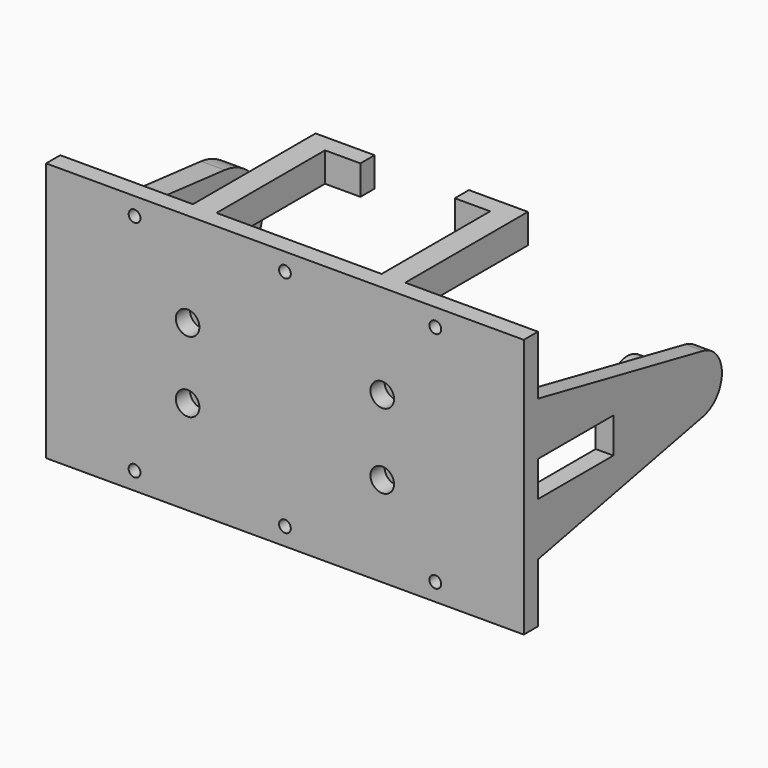
from build123d import *

# Parameters (mm, degrees)
F0_W      = 71
F0_H      = 34
F1_DEPTH  = 3
F2_R      = 1
F3_W      = 2.5
F3_H      = 1.5
F4_DEPTH  = 0.1
F5_W      = 80.9999997616
F5_H      = 43.9999997616
F5_R      = 2
F6_DEPTH  = 3
F7_R      = 2.35
F8_DEPTH  = 4
F10_DEPTH = 3
F11_R     = 4
F12_DEPTH = 8
F13_W     = 4
F13_H     = 5
F14_DEPTH = 23
F15_W     = 10
F15_H     = 3
F16_DEPTH = 5
F17_R     = 1
F18_DEPTH = 25
F19_W     = 10
F19_H     = 3
F20_DEPTH = 5


with BuildPart() as f1:
    # F0 (on Front) → F1 (new body, symmetric)
    with BuildSketch(Plane.XZ):
        Rectangle(F0_W, F0_H)
    extrude(amount=F1_DEPTH, both=True)

    # F2
    f2_edges = [f1.edges().sort_by_distance(p)[0] for p in [
        (0, -3, 17),
        (0, 3, 17),
        (35.5, -3, 0),
        (35.5, 3, 0),
        (0, -3, -17),
        (35.5, 0, -17),
        (-35.5, 0, 17),
        (-35.5, -3, 0),
        (-35.5, 3, 0),
        (0, 3, -17),
        (-35.5, 0, -17),
        (35.5, 0, 17),
    ]]
    fillet(f2_edges, radius=F2_R)

    # F3 (on face) → F4 (join)
    with BuildSketch(Plane.YZ.offset(35.5)):
        with Locations((0, 12.75)):
            Rectangle(F3_W, F3_H)
        with Locations((0, 10.25)):
            Rectangle(F3_W, F3_H)
        with Locations((0, 7.75)):
            Rectangle(F3_W, F3_H)
        with Locations((0, 5.25)):
            Rectangle(F3_W, F3_H)
    extrude(amount=F4_DEPTH)


with BuildPart() as f6:
    # F5 (on face) → F6 (new body)
    with BuildSketch(Plane.XZ.offset(3)):
        Rectangle(F5_W, F5_H)
        with Locations((-16.5, -6)):
            Circle(F5_R, mode=Mode.SUBTRACT)
        with Locations((16.5, -6.7071067812)):
            Circle(F5_R, mode=Mode.SUBTRACT)
        with Locations((-16.5, 6)):
            Circle(F5_R, mode=Mode.SUBTRACT)
        with Locations((16.5, 6)):
            Circle(F5_R, mode=Mode.SUBTRACT)
    extrude(amount=F6_DEPTH)

    # F7 (on face) → F8 (join)
    with BuildSketch(Plane(origin=(-40.4999998808, 0, 0), x_dir=(0, -1, 0), z_dir=(-1, 0, 0))):
        with BuildLine():
            ThreePointArc((-26.8449103639, -8.9534731092), (-19.8987728873, -6.6792822325), (-16.9309523324, 0))
            ThreePointArc((-16.9309523324, 0), (-19.8987728873, 6.6792822325), (-26.8449103639, 8.9534731092))
            ThreePointArc((-26.8449103639, 8.9534731092), (-34.9309523324, 0), (-26.8449103639, -8.9534731092))
        make_face()
        with Locations((-25.9309523324, 0)):
            Circle(F7_R, mode=Mode.SUBTRACT)
        with BuildLine():
            ThreePointArc((-26.8449103639, 8.9534731092), (-19.8987728873, 6.6792822325), (-16.9309523324, 0))
            ThreePointArc((-16.9309523324, 0), (-19.8987728873, -6.6792822325), (-26.8449103639, -8.9534731092))
            Line((-26.8449103639, -8.9534731092), (3, -11.9999998808))
            Line((3, -11.9999998808), (3, -3))
            Line((3, -3), (-13, -3))
            Line((-13, -3), (-13, 3))
            Line((-13, 3), (3, 3))
            Line((3, 3), (3, 11.9999998808))
            Line((3, 11.9999998808), (-26.8449103639, 8.9534731092))
        make_face()
    extrude(amount=-F8_DEPTH)

    # F9 (on face) → F10 (join)
    with BuildSketch(Plane.YZ.offset(40.4999998808)):
        with BuildLine():
            ThreePointArc((31.9941757912, -4.9001647417), (34.8711031345, -3.1645790434), (36, 0))
            ThreePointArc((36, 0), (34.8711031345, 3.1645790434), (31.9941757912, 4.9001647417))
            ThreePointArc((31.9941757912, 4.9001647417), (26, 0), (31.9941757912, -4.9001647417))
        make_face()
        with BuildLine():
            ThreePointArc((31.9941757912, -4.9001647417), (26, 0), (31.9941757912, 4.9001647417))
            Line((31.9941757912, 4.9001647417), (-3, 12))
            Line((-3, 12), (-3, 3))
            Line((-3, 3), (13, 3))
            Line((13, 3), (13, -3))
            Line((13, -3), (-3, -3))
            Line((-3, -3), (-3, -12))
            Line((-3, -12), (31.9941757912, -4.9001647417))
        make_face()
    extrude(amount=-F10_DEPTH)

    # F11 (on face) → F12 (join)
    with BuildSketch(Plane.YZ.offset(40.4999998808)):
        with Locations((26, 0)):
            Circle(F11_R)
    extrude(amount=-F12_DEPTH)

    # F13 (on face) → F14 (join)
    with BuildSketch(Plane(origin=(0, -3, 0), x_dir=(-1, 0, 0), z_dir=(0, 1, 0))):
        with Locations((16, 19.4999998808)):
            Rectangle(F13_W, F13_H)
        with Locations((-16, 19.4999998808)):
            Rectangle(F13_W, F13_H)
        with Locations((16, -19.4999998808)):
            Rectangle(F13_W, F13_H)
        with Locations((-16, -19.4999998808)):
            Rectangle(F13_W, F13_H)
    extrude(amount=F14_DEPTH)

    # F15 (on face) → F16 (join)
    with BuildSketch(Plane(origin=(0, 0, 16.9999998808), x_dir=(1, 0, 0), z_dir=(0, 0, -1))):
        with Locations((13, -21.5)):
            Rectangle(F15_W, F15_H)
        with Locations((-13, -21.5)):
            Rectangle(F15_W, F15_H)
    extrude(amount=-F16_DEPTH)

    # F17 (on face) → F18 (cut)
    with BuildSketch(Plane(origin=(0, -3, 0), x_dir=(-1, 0, 0), z_dir=(0, 1, 0))):
        with Locations((25.4999998808, 18.9999998808)):
            Circle(F17_R)
        with Locations((25.4999998808, -18.9999998808)):
            Circle(F17_R)
        with Locations((-25.4999998808, 18.9999998808)):
            Circle(F17_R)
        with Locations((-25.4999998808, -18.9999998808)):
            Circle(F17_R)
        with Locations((0, -18.9999998808)):
            Circle(F17_R)
        with Locations((0, 18.9999998808)):
            Circle(F17_R)
    extrude(amount=-F18_DEPTH, mode=Mode.SUBTRACT)

    # F19 (on face) → F20 (join)
    with BuildSketch(Plane.XY.offset(-16.9999998808)):
        with Locations((-13, 21.5)):
            Rectangle(F19_W, F19_H)
        with Locations((13, 21.5)):
            Rectangle(F19_W, F19_H)
    extrude(amount=-F20_DEPTH)


solid = Compound([f1.part, f6.part])
